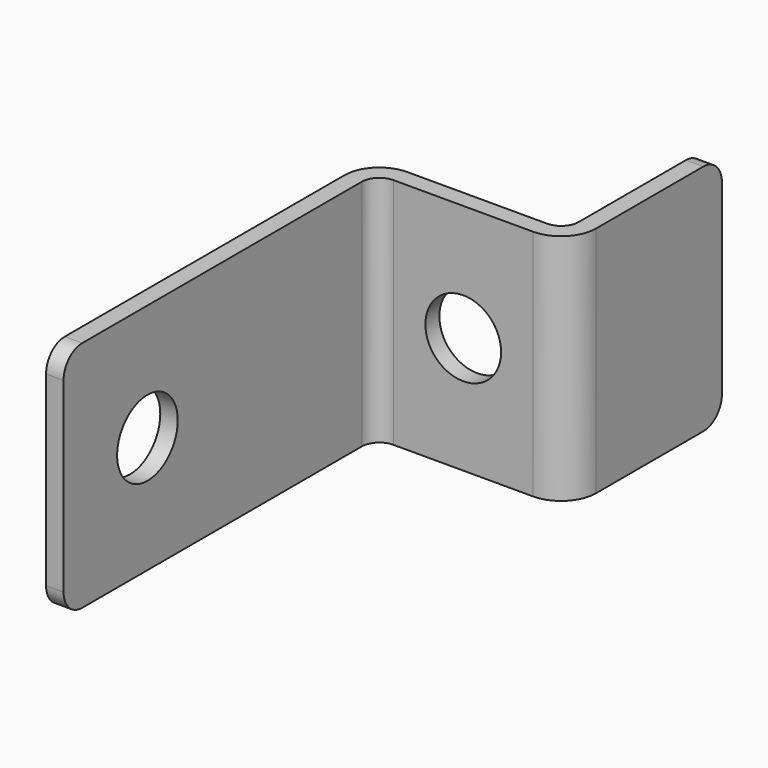
from build123d import *

# Parameters (mm, degrees)
F1_DEPTH = 20
F2_R     = 2
F3_R     = 3.25
F4_DEPTH = 50
F5_R     = 3.25
F6_DEPTH = 25


with BuildPart() as f1:
    # F0 (on Top) → F1 (new body)
    with BuildSketch(Plane.XY):
        with BuildLine():
            Line((0, 32), (0, 0))
            Line((0, 0), (1.5, 0))
            Line((1.5, 0), (1.5, 32))
            ThreePointArc((1.5, 32), (1.93934, 33.06066), (3, 33.5))
            Line((3, 33.5), (15, 33.5))
            ThreePointArc((15, 33.5), (17.12132, 34.37868), (18, 36.5))
            Line((18, 36.5), (18, 50))
            Line((18, 50), (16.5, 50))
            Line((16.5, 50), (16.5, 36.5))
            ThreePointArc((16.5, 36.5), (16.06066, 35.43934), (15, 35))
            Line((15, 35), (3, 35))
            ThreePointArc((3, 35), (0.87868, 34.12132), (0, 32))
        make_face()
    extrude(amount=F1_DEPTH)

    # F2
    f2_edges = [f1.edges().sort_by_distance(p)[0] for p in [
        (0.75, 0, 20),
        (0.75, 0, 0),
        (17.25, 50, 20),
        (17.25, 50, 0),
    ]]
    fillet(f2_edges, radius=F2_R)

    # F3 (on face) → F4 (cut)
    with BuildSketch(Plane.YZ.offset(18)):
        with Locations((9, 10)):
            Circle(F3_R)
    extrude(amount=-F4_DEPTH, mode=Mode.SUBTRACT)

    # F5 (on face) → F6 (cut)
    with BuildSketch(Plane.XZ.offset(-33.5)):
        with Locations((9, 10)):
            Circle(F5_R)
    extrude(amount=-F6_DEPTH, mode=Mode.SUBTRACT)


solid = f1.part
